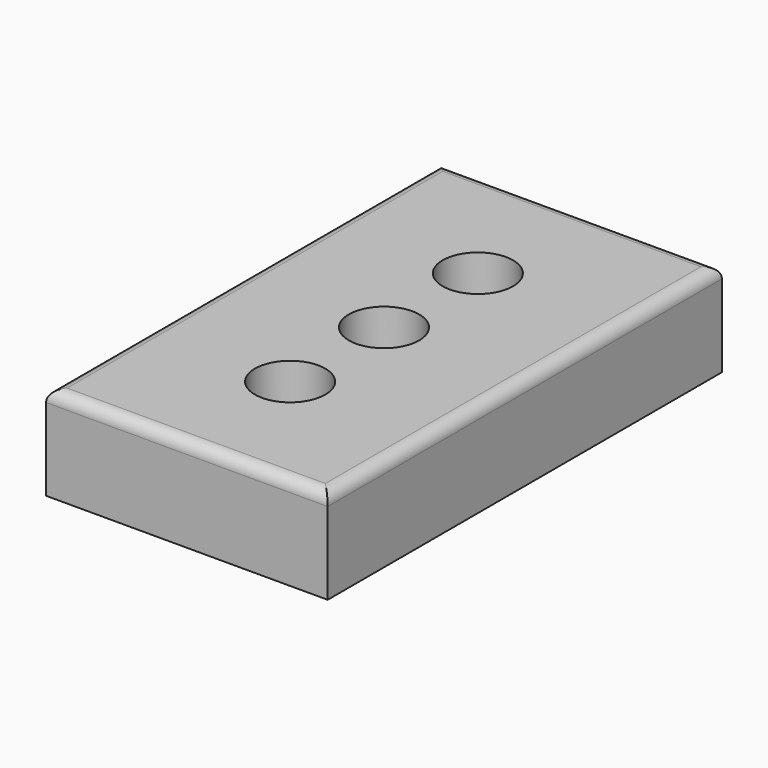
from build123d import *

# Parameters (mm, degrees)
F0_W     = 60
F0_H     = 105
F1_DEPTH = 20
F2_R     = 2.5


with BuildPart() as f1:
    # F0 (on Top) → F1 (new body)
    with BuildSketch(Plane.XY):
        Rectangle(F0_W, F0_H)
        with BuildLine():
            ThreePointArc((7.5, -25), (-5.3033008589, -30.3033008589), (0, -17.5))
            ThreePointArc((0, -17.5), (5.3033008589, -19.6966991411), (7.5, -25))
        make_face(mode=Mode.SUBTRACT)
        with BuildLine():
            ThreePointArc((0, 7.5), (5.3033008589, 5.3033008589), (7.5, 0))
            ThreePointArc((7.5, 0), (5.3033008589, -5.3033008589), (0, -7.5))
            ThreePointArc((0, -7.5), (-7.5, 0), (0, 7.5))
        make_face(mode=Mode.SUBTRACT)
        with BuildLine():
            ThreePointArc((7.5, 25), (5.3033008589, 19.6966991411), (0, 17.5))
            ThreePointArc((0, 17.5), (-5.3033008589, 30.3033008589), (7.5, 25))
        make_face(mode=Mode.SUBTRACT)
    extrude(amount=F1_DEPTH)

    # F2
    f2_edges = [f1.edges().sort_by_distance(p)[0] for p in [
        (0, -52.5, 20),
        (30, 0, 20),
        (-30, 0, 20),
        (0, 52.5, 20),
    ]]
    fillet(f2_edges, radius=F2_R)


solid = f1.part
